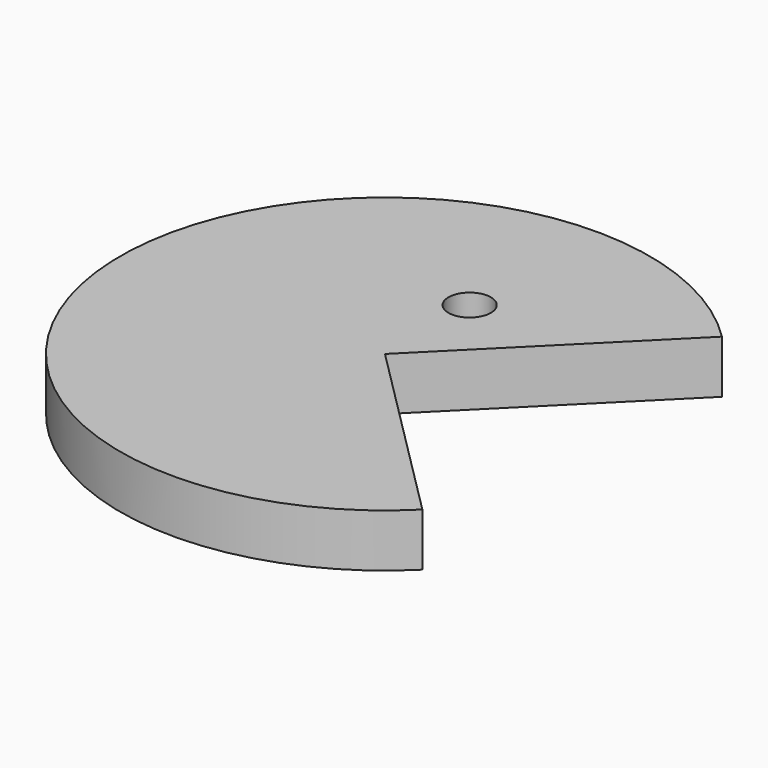
from build123d import *

# Parameters (mm, degrees)
CYLINDER001_R            = 2
CYLINDER001_DEPTH        = 10
CYLINDER_W               = 25
CYLINDER_H               = 5
CYLINDER_ANGLE           = 270
CYLINDER_PLACEMENT_ANGLE = 45


with BuildPart() as eye:
    # Cylinder001 → Cylinder001 (new body)
    with BuildSketch(Plane(origin=(0, 10, -2), x_dir=(1, 0, 0), z_dir=(0, 0, 1))):
        Circle(CYLINDER001_R)
    extrude(amount=CYLINDER001_DEPTH)


with BuildPart() as obj1:
    # Cylinder → Cylinder (revolve)
    with BuildSketch(Plane.XZ):
        with Locations((12.5, 2.5)):
            Rectangle(CYLINDER_W, CYLINDER_H)
    revolve(axis=Axis((0, 0, 0), (0, 0, 1)), revolution_arc=CYLINDER_ANGLE)


with BuildPart() as obj1_1:
    # Cylinder placement: moved
    add(obj1.part.rotate(Axis((0, 0, 0), (0, 0, 1)), CYLINDER_PLACEMENT_ANGLE))

    # Cut: cut eye
    add(eye.part, mode=Mode.SUBTRACT)


solid = obj1_1.part
